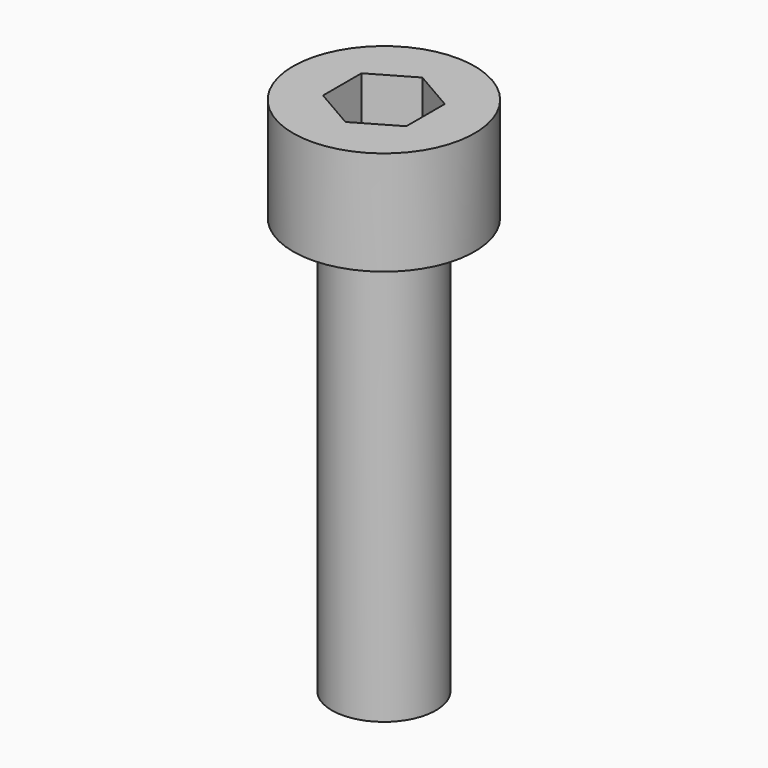
from build123d import *

# Parameters (mm, degrees)
CYLINDER019_R                      = 2.5
CYLINDER019_DEPTH                  = 25
CYLINDER018_R                      = 4.36
CYLINDER018_DEPTH                  = 5
FUSION001018017020_PLACEMENT_ANGLE = 180
POCKET002018004005_DEPTH           = 2.5


with BuildPart() as cylinder019:
    # Cylinder019 → Cylinder019 (new body)
    with BuildSketch(Plane.XY):
        Circle(CYLINDER019_R)
    extrude(amount=CYLINDER019_DEPTH)


with BuildPart() as obj1:
    # Cylinder018 → Cylinder018 (new body)
    with BuildSketch(Plane.XY):
        Circle(CYLINDER018_R)
    extrude(amount=CYLINDER018_DEPTH)

    # Fusion001018017020: union Cylinder019
    add(cylinder019.part)


with BuildPart() as obj1_1:
    # Fusion001018017020 placement: moved
    add(obj1.part.rotate(Axis((0, 0, 0), (0, 1, 0)), FUSION001018017020_PLACEMENT_ANGLE))

    # Sketch022 → Pocket002018004005 (cut)
    with BuildSketch(Plane(origin=(0, 0, 0), x_dir=(-1, 0, 0), z_dir=(0, 0, 1))):
        Polygon((2, -1.154701), (2, 1.154701), (0, 2.309401), (-2, 1.154701), (-2, -1.154701), (0, -2.309401), align=None)
    extrude(amount=-POCKET002018004005_DEPTH, mode=Mode.SUBTRACT)


solid = obj1_1.part
